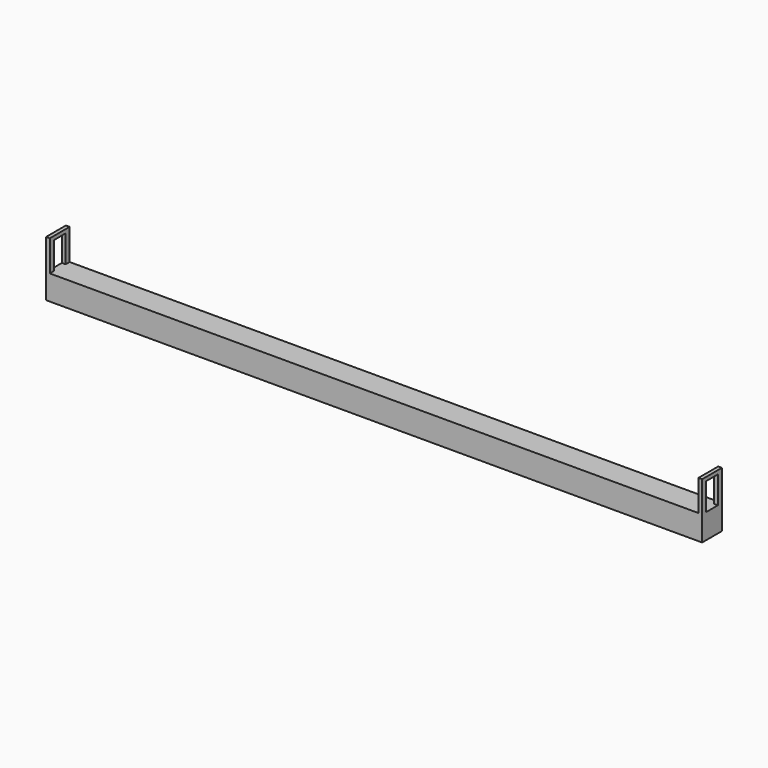
from build123d import *

# Parameters (mm, degrees)
SKETCH_W     = 53
SKETCH_H     = 2
PAD_DEPTH    = 2
SKETCH001_W  = 0.3
SKETCH001_H  = 2
PAD001_DEPTH = 2.5
SKETCH002_W  = 1.2
SKETCH002_H  = 2.2
POCKET_DEPTH = 0.3


with BuildPart() as part:
    # Sketch → Pad (new body)
    with BuildSketch(Plane.XY):
        Rectangle(SKETCH_W, SKETCH_H)
    extrude(amount=PAD_DEPTH)

    # Sketch001 (on Face6 of Pad) → Pad001 (join)
    with BuildSketch(Plane.XY.offset(2)):
        with Locations((-26.35, 0)):
            Rectangle(SKETCH001_W, SKETCH001_H)
    pad001 = extrude(amount=PAD001_DEPTH)

    # Sketch002 (on Face8 of Pad001) → Pocket (cut)
    with BuildSketch(Plane(origin=(-26.5, 0, 0), x_dir=(0, -1, 0), z_dir=(-1, 0, 0))):
        with Locations((0, 3.1)):
            Rectangle(SKETCH002_W, SKETCH002_H)
    pocket = extrude(amount=-POCKET_DEPTH, mode=Mode.SUBTRACT)

    # Mirrored: Pad001 across Sketch001 V_Axis
    add(pad001.mirror(Plane(origin=(0, 0, 2), x_dir=(0, 0, 1), z_dir=(1, 0, 0))))

    # Mirrored001: Pocket across YZ
    add(pocket.mirror(Plane.YZ), mode=Mode.SUBTRACT)


solid = part.part
